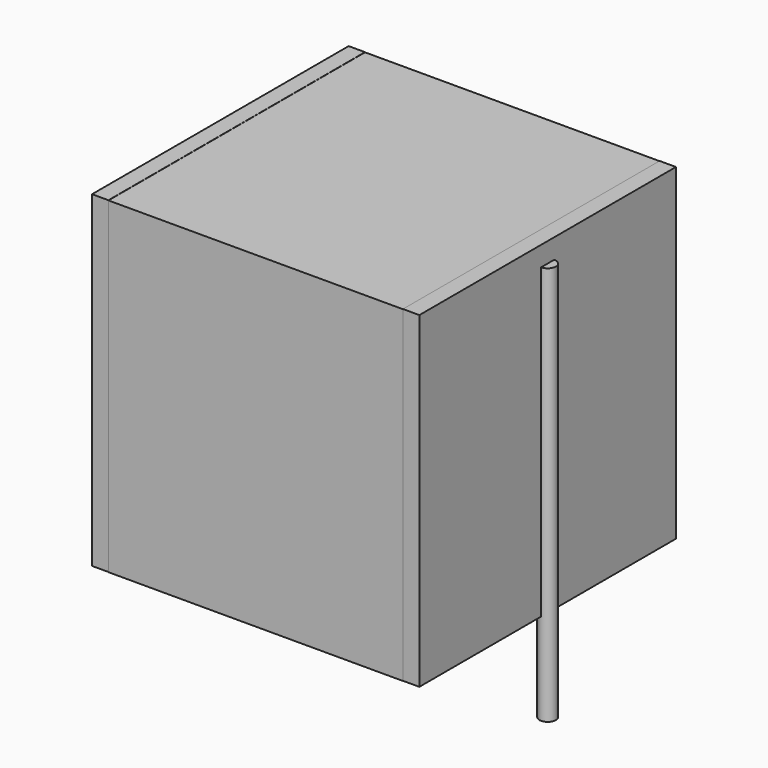
from build123d import *

# Parameters (mm, degrees)
SKETCH_W          = 9
SKETCH_H          = 9.8
PAD_DEPTH         = 10
SKETCH001_R       = 0.25
PAD001_DEPTH      = 9
PAD001_DEPTH_BACK = 3.2
SKETCH002_W       = 0.5
SKETCH002_H       = 9.8
PAD002_DEPTH      = 10


with BuildPart() as pad:
    # Sketch → Pad (new body)
    with BuildSketch(Plane.XY.offset(0.1)):
        with Locations((5, 0)):
            Rectangle(SKETCH_W, SKETCH_H)
    extrude(amount=PAD_DEPTH)


with BuildPart() as pad001:
    # Sketch001 → Pad001 (new body, two sides)
    with BuildSketch(Plane.XY.offset(0.5)) as pad001_sk:
        Circle(SKETCH001_R)
        with Locations((10, 0)):
            Circle(SKETCH001_R)
    extrude(amount=PAD001_DEPTH)
    extrude(pad001_sk.sketch, amount=-PAD001_DEPTH_BACK)


with BuildPart() as pad002:
    # Sketch002 → Pad002 (new body)
    with BuildSketch(Plane.XY.offset(0.105)):
        with Locations((0.25, 0)):
            Rectangle(SKETCH002_W, SKETCH002_H)
        with Locations((9.75, 0)):
            Rectangle(SKETCH002_W, SKETCH002_H)
    extrude(amount=PAD002_DEPTH)


solid = Compound([pad.part, pad001.part, pad002.part])
